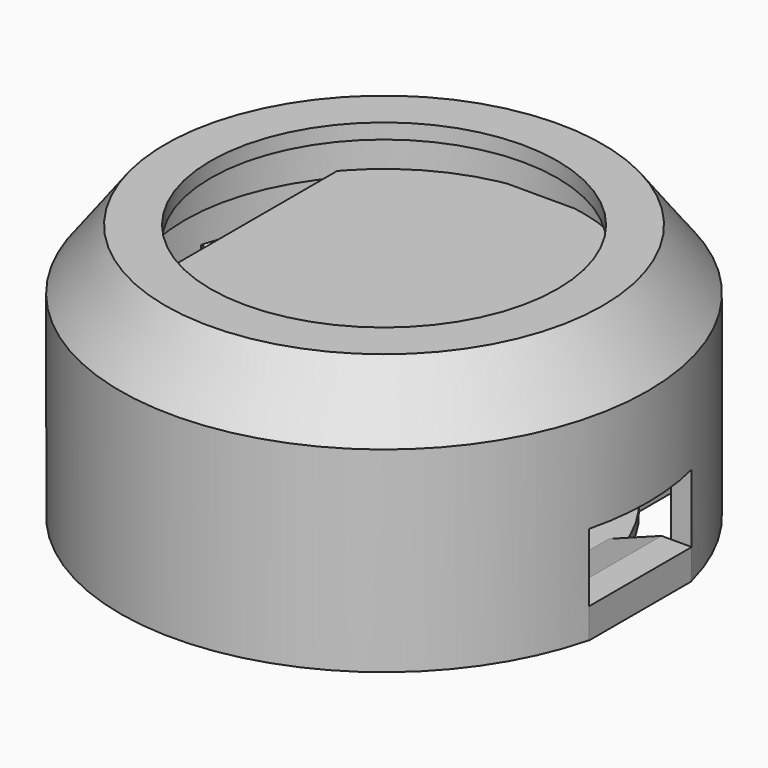
from build123d import *

# Parameters (mm, degrees)
BOX_W                      = 20
BOX_H                      = 26
BOX_DEPTH                  = 13.4
CYLINDER007_R              = 1
CYLINDER007_DEPTH          = 6
CYLINDER008_R              = 1
CYLINDER008_DEPTH          = 6
CYLINDER002_R              = 11.5
CYLINDER002_DEPTH          = 30
BOX001_W                   = 16
BOX001_H                   = 8.5
BOX001_DEPTH               = 7
CYLINDER018_R              = 9
CYLINDER018_DEPTH          = 3.5
CYLINDER017_R              = 12
CYLINDER017_DEPTH          = 3.5
BOX006_W                   = 10
BOX006_H                   = 2
BOX006_DEPTH               = 1.5
BOX007_W                   = 10
BOX007_H                   = 2
BOX007_DEPTH               = 1.5
CYLINDER020_R              = 16.2
CYLINDER020_DEPTH          = 13
CYLINDER_R                 = 13.2
CYLINDER_DEPTH             = 16
CYLINDER006_R              = 17.5
CYLINDER006_DEPTH          = 17
CHAMFER_SIZE2              = 3
CHAMFER_SIZE               = 4
BOX002_W                   = 20
BOX002_H                   = 26
BOX002_DEPTH               = 0.7
CYLINDER016_R              = 3
CYLINDER016_DEPTH          = 1.5
BOX003_W                   = 6
BOX003_H                   = 8.5
BOX003_DEPTH               = 2
CHAMFER004_SIZE2           = 4
CHAMFER004_SIZE            = 1.5
BOX008_W                   = 9
BOX008_H                   = 2
BOX008_DEPTH               = 1
BOX004_W                   = 9
BOX004_H                   = 2.75
BOX004_DEPTH               = 1
CHAMFER005_SIZE2           = 0.9
CHAMFER005_SIZE            = 1.5
CHAMFER006_SIZE            = 0.45
CHAMFER006_PLACEMENT_ANGLE = 180
CHAMFER007_SIZE            = 0.45
CYLINDER019_R              = 13.2
CYLINDER019_DEPTH          = 0.7


with BuildPart() as batteryhole:
    # Box → Box (new body)
    with BuildSketch(Plane(origin=(-10, -13, -1), x_dir=(1, 0, 0), z_dir=(0, 0, 1))):
        with Locations((10, 13)):
            Rectangle(BOX_W, BOX_H)
    extrude(amount=BOX_DEPTH)


with BuildPart() as r_screw:
    # Cylinder007 → Cylinder007 (new body)
    with BuildSketch(Plane(origin=(0, -15.2, 0), x_dir=(1, 0, 0), z_dir=(0, 0, 1))):
        Circle(CYLINDER007_R)
    extrude(amount=CYLINDER007_DEPTH)


with BuildPart() as l_screw:
    # Cylinder008 → Cylinder008 (new body)
    with BuildSketch(Plane(origin=(0, 15.2, 0), x_dir=(1, 0, 0), z_dir=(0, 0, 1))):
        Circle(CYLINDER008_R)
    extrude(amount=CYLINDER008_DEPTH)


with BuildPart() as diffuserhole:
    # Cylinder002 → Cylinder002 (new body)
    with BuildSketch(Plane.XY):
        Circle(CYLINDER002_R)
    extrude(amount=CYLINDER002_DEPTH)


with BuildPart() as usb:
    # Box001 → Box001 (new body)
    with BuildSketch(Plane(origin=(7, -4.25, -1.5), x_dir=(1, 0, 0), z_dir=(0, 0, 1))):
        with Locations((8, 4.25)):
            Rectangle(BOX001_W, BOX001_H)
    extrude(amount=BOX001_DEPTH)


with BuildPart() as cylinder001:
    # Cylinder018 → Cylinder018 (new body)
    with BuildSketch(Plane(origin=(-23.5, 0, 4.5), x_dir=(1, 0, 0), z_dir=(0, 0, 1))):
        Circle(CYLINDER018_R)
    extrude(amount=CYLINDER018_DEPTH)


with BuildPart() as chain_channel:
    # Cylinder017 → Cylinder017 (new body)
    with BuildSketch(Plane(origin=(-23.5, 0, 4.5), x_dir=(1, 0, 0), z_dir=(0, 0, 1))):
        Circle(CYLINDER017_R)
    extrude(amount=CYLINDER017_DEPTH)

    # Cut002: cut Cylinder001
    add(cylinder001.part, mode=Mode.SUBTRACT)


with BuildPart() as tab_2_female:
    # Box006 → Box006 (new body)
    with BuildSketch(Plane(origin=(-5, -14, 0), x_dir=(1, 0, 0), z_dir=(0, 0, 1))):
        with Locations((5, 1)):
            Rectangle(BOX006_W, BOX006_H)
    extrude(amount=BOX006_DEPTH)


with BuildPart() as tab_1_female:
    # Box007 → Box007 (new body)
    with BuildSketch(Plane(origin=(-5, 12, 0), x_dir=(1, 0, 0), z_dir=(0, 0, 1))):
        with Locations((5, 1)):
            Rectangle(BOX007_W, BOX007_H)
    extrude(amount=BOX007_DEPTH)


with BuildPart() as hollow_out:
    # Cylinder020 → Cylinder020 (new body)
    with BuildSketch(Plane.XY.offset(-1)):
        Circle(CYLINDER020_R)
    extrude(amount=CYLINDER020_DEPTH)


with BuildPart() as guts:
    # Cylinder → Cylinder (new body)
    with BuildSketch(Plane.XY.offset(-1)):
        Circle(CYLINDER_R)
    extrude(amount=CYLINDER_DEPTH)

    # Fusion: union DiffuserHole, USB, Chain Channel, Tab 2 Female, Tab 1 Female, Hollow Out
    add(diffuserhole.part)
    add(usb.part)
    add(chain_channel.part)
    add(tab_2_female.part)
    add(tab_1_female.part)
    add(hollow_out.part)


with BuildPart() as front:
    # Cylinder006 → Cylinder006 (new body)
    with BuildSketch(Plane.XY.offset(-1)):
        Circle(CYLINDER006_R)
    extrude(amount=CYLINDER006_DEPTH)

    # Chamfer
    chamfer_edges = [front.edges().sort_by_distance(p)[0] for p in [
        (-17.5, 0, 16),
    ]]
    chamfer_side = front.faces().sort_by_distance((-17.5, 0, 7.5))[0]
    chamfer(chamfer_edges, length=CHAMFER_SIZE, length2=CHAMFER_SIZE2, reference=chamfer_side)

    # Cut: cut Guts
    add(guts.part, mode=Mode.SUBTRACT)


with BuildPart() as batteryhole001:
    # Box002 → Box002 (new body)
    with BuildSketch(Plane(origin=(-10, -13, -1), x_dir=(1, 0, 0), z_dir=(0, 0, 1))):
        with Locations((10, 13)):
            Rectangle(BOX002_W, BOX002_H)
    extrude(amount=BOX002_DEPTH)


with BuildPart() as button_presser:
    # Cylinder016 → Cylinder016 (new body)
    with BuildSketch(Plane.XY.offset(-0.5)):
        Circle(CYLINDER016_R)
    extrude(amount=CYLINDER016_DEPTH)


with BuildPart() as usb_cover:
    # Box003 → Box003 (new body)
    with BuildSketch(Plane(origin=(11, -4.25, -1), x_dir=(1, 0, 0), z_dir=(0, 0, 1))):
        with Locations((3, 4.25)):
            Rectangle(BOX003_W, BOX003_H)
    extrude(amount=BOX003_DEPTH)

    # Chamfer004
    chamfer004_edges = [usb_cover.edges().sort_by_distance(p)[0] for p in [
        (11, 0, 1),
    ]]
    chamfer004_side = usb_cover.faces().sort_by_distance((11, 0, 0))[0]
    chamfer(chamfer004_edges, length=CHAMFER004_SIZE, length2=CHAMFER004_SIZE2, reference=chamfer004_side)


with BuildPart() as tab_base:
    # Box008 → Box008 (new body)
    with BuildSketch(Plane(origin=(-4.5, 10.75, -0.75), x_dir=(1, 0, 0), z_dir=(0, 0, 1))):
        with Locations((4.5, 1)):
            Rectangle(BOX008_W, BOX008_H)
    extrude(amount=BOX008_DEPTH)


with BuildPart() as chamfer005:
    # Box004 → Box004 (new body)
    with BuildSketch(Plane(origin=(-4.5, 10.75, 0.25), x_dir=(1, 0, 0), z_dir=(0, 0, 1))):
        with Locations((4.5, 1.375)):
            Rectangle(BOX004_W, BOX004_H)
    extrude(amount=BOX004_DEPTH)

    # Fusion002: union Tab Base
    add(tab_base.part)

    # Chamfer005
    chamfer005_edges = [chamfer005.edges().sort_by_distance(p)[0] for p in [
        (0, 10.75, 1.25),
    ]]
    chamfer005_side = chamfer005.faces().sort_by_distance((0, 12.125, 1.25))[0]
    chamfer(chamfer005_edges, length=CHAMFER005_SIZE, length2=CHAMFER005_SIZE2, reference=chamfer005_side)


with BuildPart() as chamfer006:
    # Chamfer006 base: copy of Chamfer005
    add(chamfer005.part)

    # Chamfer006
    chamfer006_edges = [chamfer006.edges().sort_by_distance(p)[0] for p in [
        (0, 13.5, 1.25),
        (0, 13.5, 0.25),
    ]]
    chamfer(chamfer006_edges, length=CHAMFER006_SIZE)


with BuildPart() as chamfer006_1:
    # Chamfer006 placement: moved
    add(chamfer006.part.rotate(Axis((0, 0, 0), (0, 0, 1)), CHAMFER006_PLACEMENT_ANGLE))


with BuildPart() as chamfer007:
    # Chamfer007 base: copy of Chamfer005
    add(chamfer005.part)

    # Chamfer007
    chamfer007_edges = [chamfer007.edges().sort_by_distance(p)[0] for p in [
        (0, 13.5, 1.25),
        (0, 13.5, 0.25),
    ]]
    chamfer(chamfer007_edges, length=CHAMFER007_SIZE)


with BuildPart() as back:
    # Cylinder019 → Cylinder019 (new body)
    with BuildSketch(Plane.XY.offset(-1)):
        Circle(CYLINDER019_R)
    extrude(amount=CYLINDER019_DEPTH)

    # Fusion001: union BatteryHole001, Button Presser, USB Cover, Chamfer006, Chamfer007
    add(batteryhole001.part)
    add(button_presser.part)
    add(usb_cover.part)
    add(chamfer006_1.part)
    add(chamfer007.part)


solid = Compound([batteryhole.part, r_screw.part, l_screw.part, front.part, back.part])
